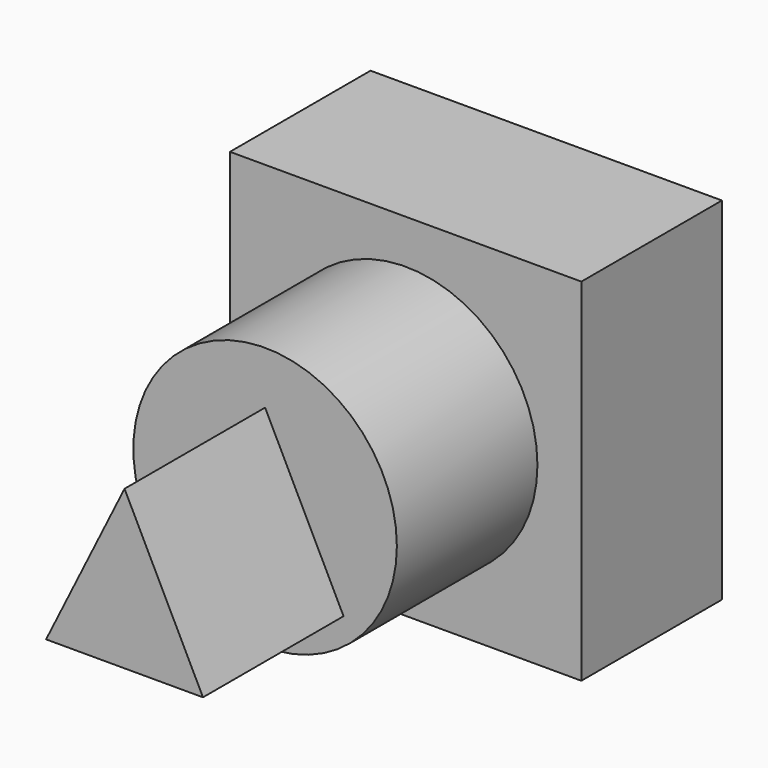
from build123d import *

# Parameters (mm, degrees)
F0_W     = 50.8
F0_H     = 50.8
F1_DEPTH = 25.4
F2_R     = 19.05
F3_DEPTH = 25.4
F5_DEPTH = 25.4


with BuildPart() as f1:
    # F0 (on Front) → F1 (new body)
    with BuildSketch(Plane.XZ):
        Rectangle(F0_W, F0_H)
    extrude(amount=F1_DEPTH)

    # F2 (on face) → F3 (join)
    with BuildSketch(Plane.XZ.offset(25.4)):
        Circle(F2_R)
    extrude(amount=F3_DEPTH)

    # F4 (on face) → F5 (join)
    with BuildSketch(Plane.XZ.offset(50.8)):
        Polygon((11.341736, -11.43), (0, 11.43), (-11.341736, -11.43), align=None)
    extrude(amount=F5_DEPTH)


solid = f1.part
